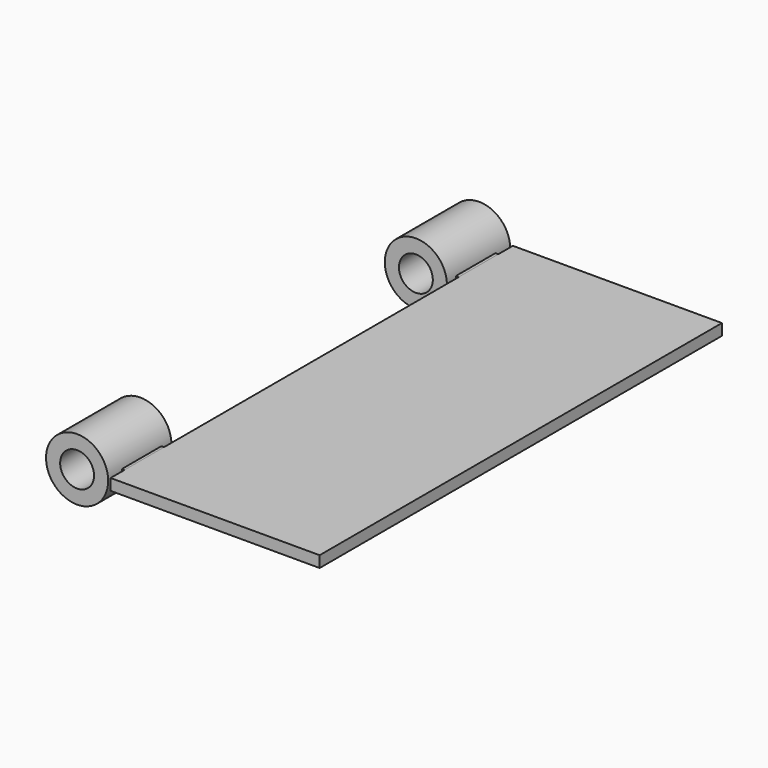
from build123d import *

# Parameters (mm, degrees)
F0_W     = 37
F0_H     = 89
F1_DEPTH = 2
F2_R     = 5.5
F2_R_2   = 3
F3_DEPTH = 14
F4_W     = 1.585274
F4_H     = 8.739933
F5_DEPTH = 2
F6_R     = 5.5
F6_R_2   = 3
F7_DEPTH = 14
F8_W     = 1.604593
F8_H     = 8.73993
F9_DEPTH = 2


with BuildPart() as f1:
    # F0 (on Top) → F1 (new body)
    with BuildSketch(Plane.XY):
        with Locations((18.5, -44.5)):
            Rectangle(F0_W, F0_H)
    extrude(amount=F1_DEPTH)


with BuildPart() as f3:
    # F2 (on face) → F3 (new body)
    with BuildSketch(Plane.XZ.offset(89)):
        with Locations((-5.929632, 1.420189)):
            Circle(F2_R)
        with Locations((-5.929632, 1.420189)):
            Circle(F2_R_2, mode=Mode.SUBTRACT)
    extrude(amount=-F3_DEPTH)


with BuildPart() as f5:
    # F4 (on face) → F5 (new body)
    with BuildSketch(Plane.XY.offset(2)):
        with Locations((-0.792637, -81.560656)):
            Rectangle(F4_W, F4_H)
    extrude(amount=-F5_DEPTH)


with BuildPart() as f7:
    # F6 (on face) → F7 (new body)
    with BuildSketch(Plane(origin=(0, 0, 0), x_dir=(-1, 0, 0), z_dir=(0, 1, 0))):
        with Locations((5.968269, 1.42)):
            Circle(F6_R)
        with Locations((5.968269, 1.42)):
            Circle(F6_R_2, mode=Mode.SUBTRACT)
    extrude(amount=-F7_DEPTH)


with BuildPart() as f9:
    # F8 (on face) → F9 (new body)
    with BuildSketch(Plane.XY.offset(2)):
        with Locations((-0.802296, -7.607417)):
            Rectangle(F8_W, F8_H)
    extrude(amount=-F9_DEPTH)


solid = Compound([f1.part, f3.part, f5.part, f7.part, f9.part])
